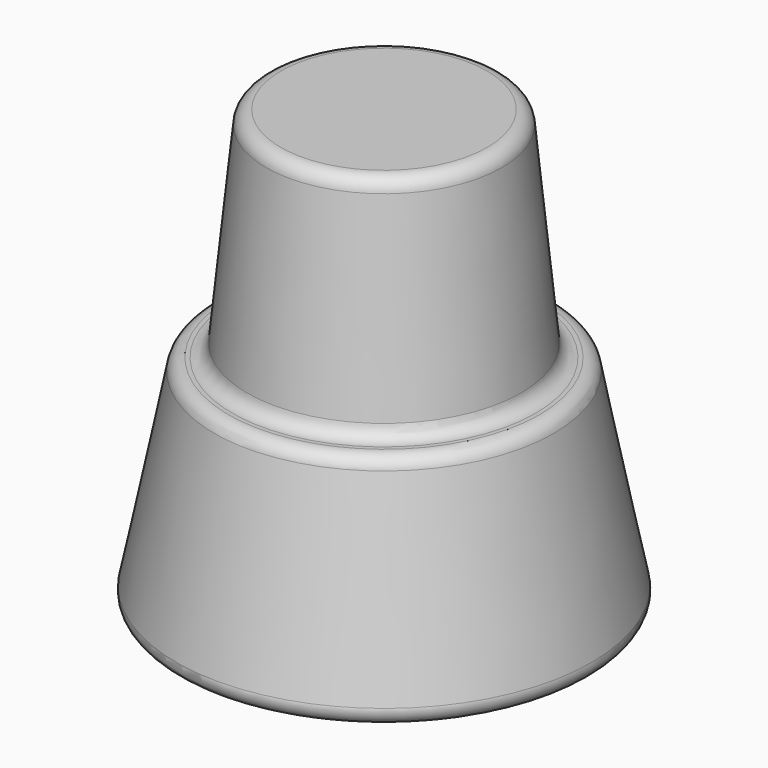
from build123d import *

# Parameters (mm, degrees)
F2_R = 1


with BuildPart() as f1:
    # F0 (on Front) → F1 (revolve)
    with BuildSketch(Plane.XZ):
        Polygon((0, 30), (0, 15), (0, 0), (14.5, 0), (11.5, 15), (9.5, 15), (8, 30), align=None)
    revolve(axis=Axis((0, 0, 7.5), (0, 0, -1)))

    # F2
    f2_edges = [f1.edges().sort_by_distance(p)[0] for p in [
        (-11.5, 0, 15),
        (-9.5, 0, 15),
        (-8, 0, 30),
        (-14.5, 0, 0),
    ]]
    fillet(f2_edges, radius=F2_R)


solid = f1.part
